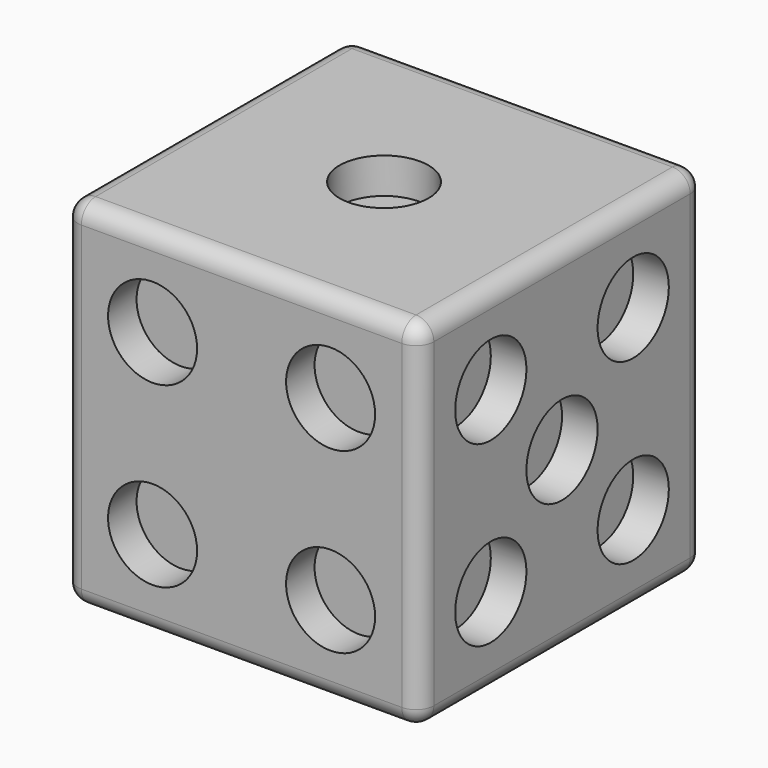
from build123d import *

# Parameters (mm, degrees)
F0_W      = 100
F0_H      = 100
F1_DEPTH  = 100
F3_R      = 12.5
F4_DEPTH  = 10
F7_R      = 12.5
F8_DEPTH  = 20
F10_R     = 12.5
F12_DEPTH = 10
F11_R     = 12.5
F13_DEPTH = 10
F14_R     = 12.5
F15_DEPTH = 10
F17_R     = 12.5
F18_DEPTH = 10
F19_R     = 11.5
F20_DEPTH = 10
F21_R     = 5


with BuildPart() as f1:
    # F0 (on Top) → F1 (new body)
    with BuildSketch(Plane.XY):
        Rectangle(F0_W, F0_H)
    extrude(amount=F1_DEPTH)

    # F3 (on face) → F4 (cut)
    with BuildSketch(Plane.XY.offset(100)):
        Circle(F3_R)
    extrude(amount=-F4_DEPTH, mode=Mode.SUBTRACT)

    # F7 (on face) → F8 (cut)
    with BuildSketch(Plane(origin=(-50, 0, 0), x_dir=(0, -1, 0), z_dir=(-1, 0, 0))):
        with Locations((-25, 50)):
            Circle(F7_R)
        with Locations((25, 50)):
            Circle(F7_R)
    extrude(amount=-F8_DEPTH, mode=Mode.SUBTRACT)

    # F10 (on face) → F12 (cut)
    with BuildSketch(Plane(origin=(0, 50, 0), x_dir=(-1, 0, 0), z_dir=(0, 1, 0))):
        with Locations((0, 50)):
            Circle(F10_R)
    extrude(amount=-F12_DEPTH, mode=Mode.SUBTRACT)

    # F11 (on face) → F13 (cut)
    with BuildSketch(Plane(origin=(0, 50, 0), x_dir=(-1, 0, 0), z_dir=(0, 1, 0))):
        with Locations((-25, 25)):
            Circle(F11_R)
        with Locations((25, 75)):
            Circle(F11_R)
    extrude(amount=-F13_DEPTH, mode=Mode.SUBTRACT)

    # F14 (on face) → F15 (cut)
    with BuildSketch(Plane.XZ.offset(50)):
        with Locations((-25, 75)):
            Circle(F14_R)
        with Locations((-25, 25)):
            Circle(F14_R)
        with Locations((25, 25)):
            Circle(F14_R)
        with Locations((25, 75)):
            Circle(F14_R)
    extrude(amount=-F15_DEPTH, mode=Mode.SUBTRACT)

    # F17 (on face) → F18 (cut)
    with BuildSketch(Plane.YZ.offset(50)):
        with Locations((-25, 75)):
            Circle(F17_R)
        with Locations((25, 75)):
            Circle(F17_R)
        with Locations((-25, 25)):
            Circle(F17_R)
        with Locations((25, 25)):
            Circle(F17_R)
        with Locations((0, 50)):
            Circle(F17_R)
    extrude(amount=-F18_DEPTH, mode=Mode.SUBTRACT)

    # F19 (on face) → F20 (cut)
    with BuildSketch(Plane(origin=(0, 0, 0), x_dir=(1, 0, 0), z_dir=(0, 0, -1))):
        with Locations((-25, 25)):
            Circle(F19_R)
        with Locations((-25, 0)):
            Circle(F19_R)
        with Locations((-25, -25)):
            Circle(F19_R)
        with Locations((25, -25)):
            Circle(F19_R)
        with Locations((25, 0)):
            Circle(F19_R)
        with Locations((25, 25)):
            Circle(F19_R)
    extrude(amount=-F20_DEPTH, mode=Mode.SUBTRACT)

    # F21
    f21_edges = [f1.edges().sort_by_distance(p)[0] for p in [
        (-50, 50, 50),
        (0, 50, 100),
        (50, 50, 50),
        (0, 50, 0),
        (50, 0, 0),
        (0, -50, 0),
        (-50, 0, 0),
        (-50, -50, 50),
        (50, -50, 50),
        (50, 0, 100),
        (0, -50, 100),
        (-50, 0, 100),
    ]]
    fillet(f21_edges, radius=F21_R)


solid = f1.part
